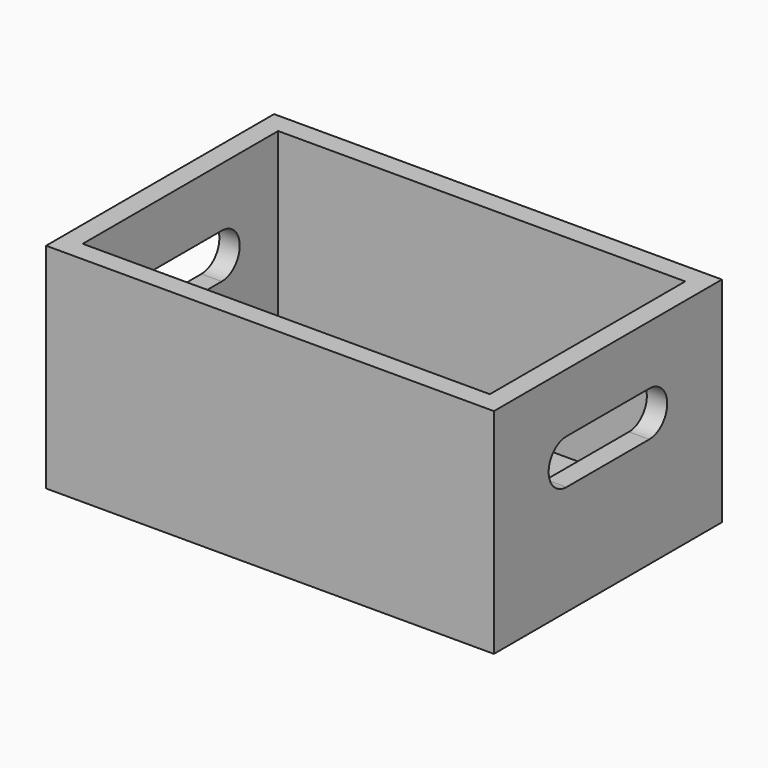
from build123d import *

# Parameters (mm, degrees)
F0_W     = 220
F0_H     = 105
F1_DEPTH = 140
F2_W     = 200
F2_H     = 120
F3_DEPTH = 95
F5_DEPTH = 220.001


with BuildPart() as f1:
    # F0 (on Front) → F1 (new body)
    with BuildSketch(Plane.XZ):
        with Locations((110, 52.5)):
            Rectangle(F0_W, F0_H)
    extrude(amount=-F1_DEPTH)

    # F2 (on face) → F3 (cut)
    with BuildSketch(Plane.XY.offset(105)):
        with Locations((110, 70)):
            Rectangle(F2_W, F2_H)
    extrude(amount=-F3_DEPTH, mode=Mode.SUBTRACT)

    # F4 (on face) → F5 (cut, through all)
    with BuildSketch(Plane.YZ.offset(220)):
        with BuildLine():
            Line((95.4, 76), (44.6, 76))
            ThreePointArc((44.6, 76), (33.6, 65), (44.6, 54))
            Line((44.6, 54), (95.4, 54))
            ThreePointArc((95.4, 54), (106.4, 65), (95.4, 76))
        make_face()
    extrude(amount=-F5_DEPTH, mode=Mode.SUBTRACT)


solid = f1.part
